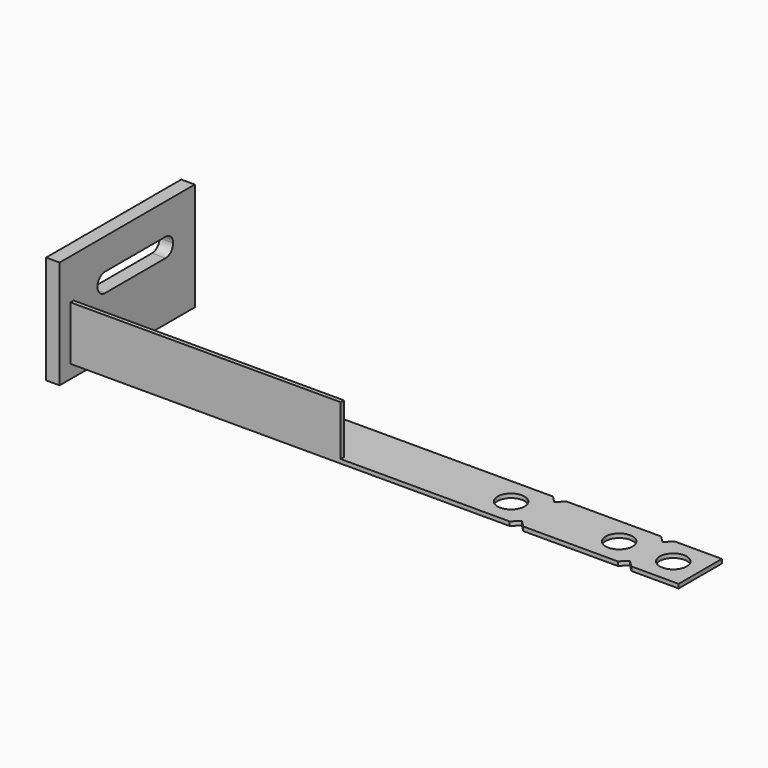
from build123d import *

# Parameters (mm, degrees)
F1_DEPTH = 80
F2_START = 10
F0_R     = 10
F2_DEPTH = 3
F3_START = 10
F3_DEPTH = 40
F5_DEPTH = 25


with BuildPart() as f1:
    # F0 (on Top) → F1 (new body)
    with BuildSketch(Plane.XY):
        Polygon((-39.2155684531, 106.5547373146), (-39.2155684531, -18.4452626854), (-29.2155684531, -18.4452626854), (-29.2155684531, -8.4452626854), (-29.2155684531, -5.4452626854), (-29.2155684531, 31.5547373146), (-29.2155684531, 106.5547373146), align=None)
    extrude(amount=F1_DEPTH)

    # F0 (on Top) → F2 (join)
    with BuildSketch(Plane.XY.offset(F2_START)):
        Polygon((-29.2155684531, 31.5547373146), (-29.2155684531, -5.4452626854), (170.7844315469, -5.4452626854), (170.7844315469, -8.4452626854), (295.7844315469, -8.4452626854), (300.7844315469, -3.4452626854), (305.7844315469, -8.4452626854), (375.7844315469, -8.4452626854), (380.7844315469, -3.4452626854), (385.7844315469, -8.4452626854), (420.7844315469, -8.4452626854), (420.7844315469, 31.5547373146), (385.7844315469, 31.5547373146), (380.7844315469, 26.5547373146), (375.7844315469, 31.5547373146), (305.7844315469, 31.5547373146), (300.7844315469, 26.5547373146), (295.7844315469, 31.5547373146), align=None)
        with Locations((280.7844315469, 11.5547373146)):
            Circle(F0_R, mode=Mode.SUBTRACT)
        with Locations((360.7844315469, 11.5547373146)):
            Circle(F0_R, mode=Mode.SUBTRACT)
        with Locations((400.7844315469, 11.5547373146)):
            Circle(F0_R, mode=Mode.SUBTRACT)
    extrude(amount=F2_DEPTH)

    # F0 (on Top) → F3 (join)
    with BuildSketch(Plane.XY.offset(F3_START)):
        Polygon((-29.2155684531, -5.4452626854), (-29.2155684531, -8.4452626854), (-19.2155684531, -8.4452626854), (170.7844315469, -8.4452626854), (170.7844315469, -5.4452626854), align=None)
    extrude(amount=F3_DEPTH)

    # F4 (on face) → F5 (cut)
    with BuildSketch(Plane.YZ.offset(-29.2155684531)):
        with BuildLine():
            ThreePointArc((23.5547373146, 57), (28.5044847829, 54.9497474683), (30.5547373146, 50))
            ThreePointArc((30.5547373146, 50), (28.5044847829, 45.0502525317), (23.5547373146, 43))
            Line((23.5547373146, 43), (79.5547373146, 43))
            ThreePointArc((79.5547373146, 43), (72.5547373146, 50), (79.5547373146, 57))
            Line((79.5547373146, 57), (23.5547373146, 57))
        make_face()
        with BuildLine():
            ThreePointArc((23.5547373146, 43), (28.5044847829, 45.0502525317), (30.5547373146, 50))
            ThreePointArc((30.5547373146, 50), (28.5044847829, 54.9497474683), (23.5547373146, 57))
            ThreePointArc((23.5547373146, 57), (16.5547373146, 50), (23.5547373146, 43))
        make_face()
        with BuildLine():
            ThreePointArc((86.5547373146, 50), (84.5044847829, 54.9497474683), (79.5547373146, 57))
            ThreePointArc((79.5547373146, 57), (72.5547373146, 50), (79.5547373146, 43))
            ThreePointArc((79.5547373146, 43), (84.5044847829, 45.0502525317), (86.5547373146, 50))
        make_face()
    extrude(amount=-F5_DEPTH, mode=Mode.SUBTRACT)


solid = f1.part
